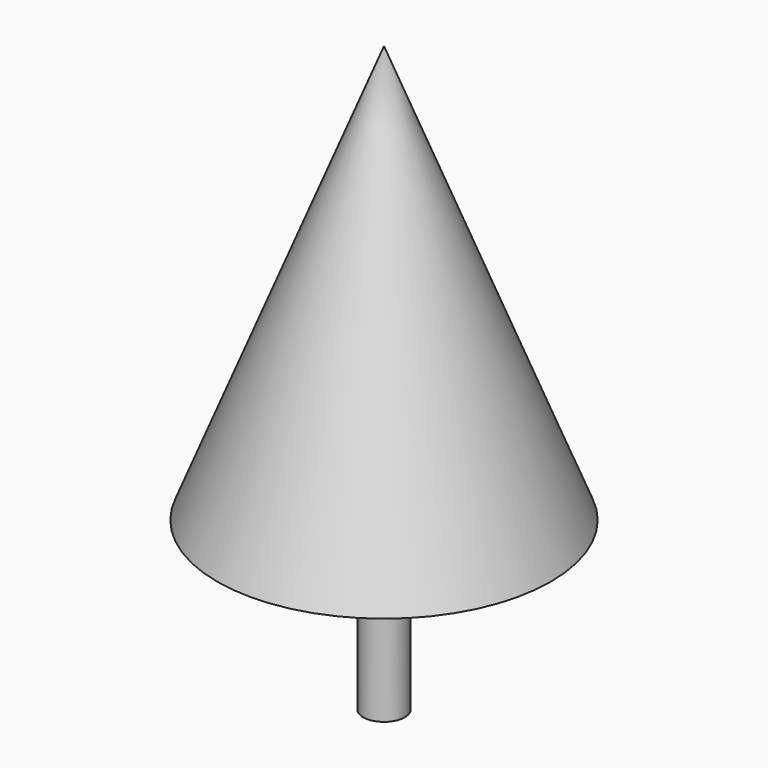
from build123d import *

# Parameters (mm, degrees)
F2_R     = 76.2
F3_DEPTH = 609.6


with BuildPart() as f1:
    # F0 (on Right) → F1 (revolve)
    with BuildSketch(Plane.YZ):
        Polygon((-609.6, 0), (0, 0), (0, 1524), align=None)
    revolve(axis=Axis((0, 0, 762), (0, 0, 1)))

    # F2 (on face) → F3 (join)
    with BuildSketch(Plane(origin=(0, 0, 0), x_dir=(1, 0, 0), z_dir=(0, 0, -1))):
        Circle(F2_R)
    extrude(amount=F3_DEPTH)


solid = f1.part
